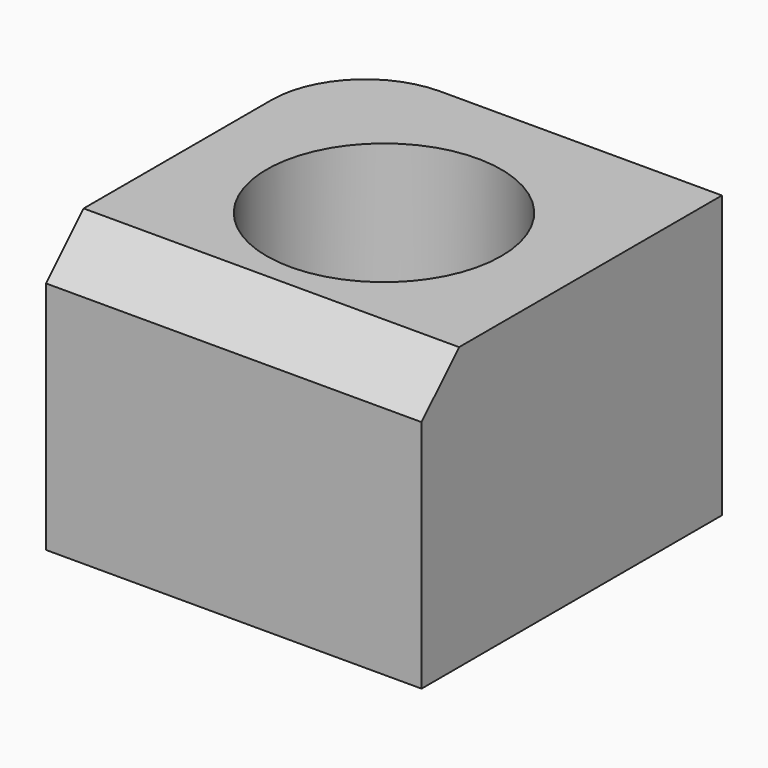
from build123d import *

# Parameters (mm, degrees)
F0_R     = 12.5
F1_DEPTH = 30
F2_SIZE  = 5


with BuildPart() as f1:
    # F0 (on Top) → F1 (new body)
    with BuildSketch(Plane.XY):
        with BuildLine():
            Line((0, 10), (0, 0))
            Line((0, 0), (0, -20))
            Line((0, -20), (40, -20))
            Line((40, -20), (40, 0))
            Line((40, 0), (40, 20))
            Line((40, 20), (10, 20))
            ThreePointArc((10, 20), (2.928932, 17.071068), (0, 10))
        make_face()
        with Locations((20, 0)):
            Circle(F0_R, mode=Mode.SUBTRACT)
    extrude(amount=F1_DEPTH)

    # F2
    f2_edges = [f1.edges().sort_by_distance(p)[0] for p in [
        (20, -20, 30),
    ]]
    chamfer(f2_edges, length=F2_SIZE)


solid = f1.part
